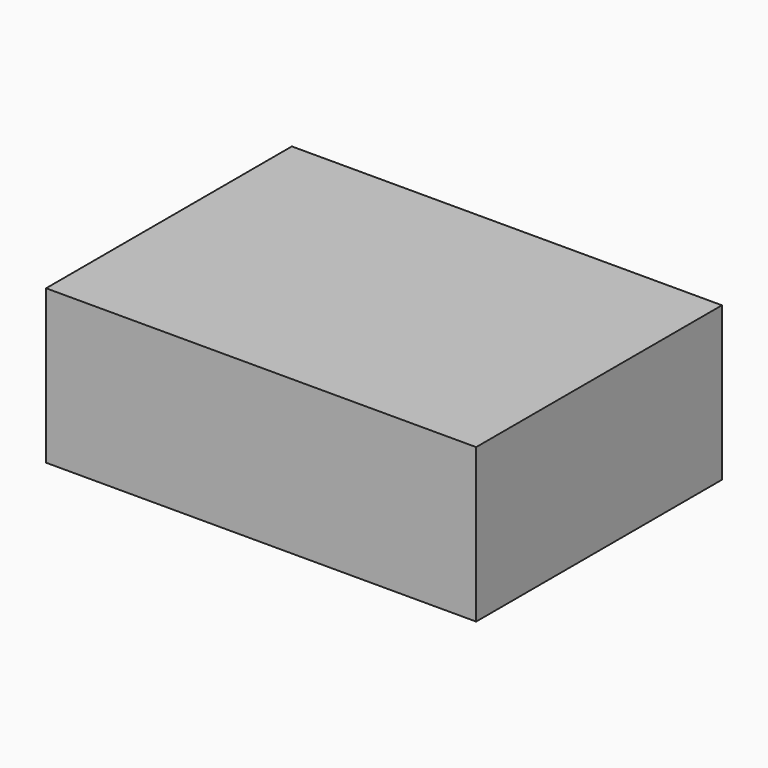
from build123d import *

# Parameters (mm, degrees)
SKETCH_W  = 14
SKETCH_H  = 10
PAD_DEPTH = 5


with BuildPart() as part:
    # Sketch → Pad (new body)
    with BuildSketch(Plane.XY):
        with Locations((5, 6)):
            Rectangle(SKETCH_W, SKETCH_H)
    extrude(amount=PAD_DEPTH)


solid = part.part
